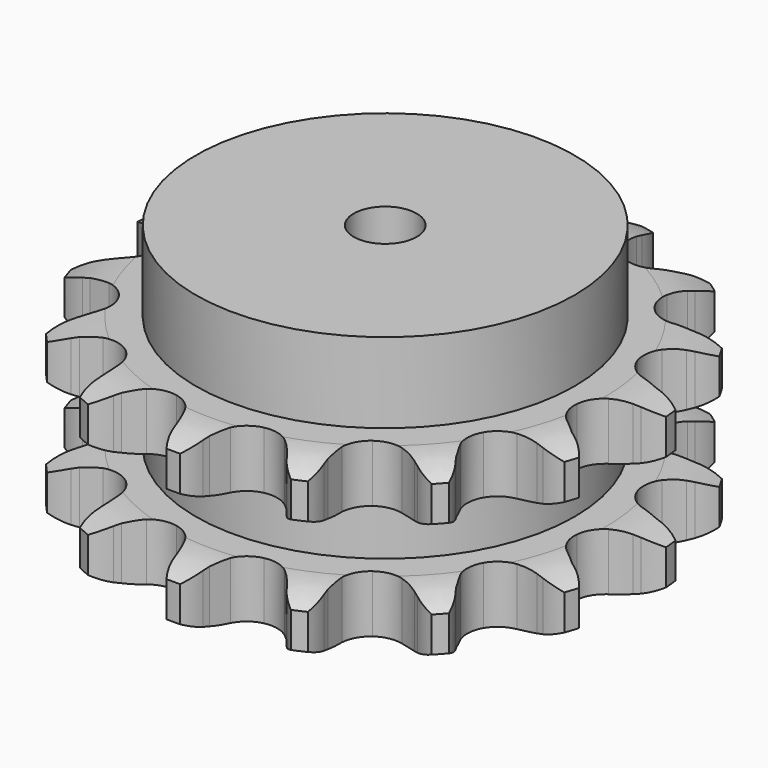
from build123d import *

# Parameters (mm, degrees)
PAD_DEPTH         = 54.6
SKETCH001_R       = 60
PAD001_DEPTH      = 80
SKETCH002_R       = 10
POCKET_DEPTH      = 0.001
POCKET_DEPTH_BACK = 80.001


with BuildPart() as part:
    # Sprocket → Pad (new body)
    with BuildSketch(Plane.XY):
        with BuildLine():
            ThreePointArc((-17.964652, 84.517045), (-14.254225, 81.479698), (-11.615491, 77.475972))
            Line((-11.615491, 77.475972), (-10.727337, 75.547943))
            ThreePointArc((-10.727337, 75.547943), (-9.261494, 72.825576), (-7.468936, 70.306308))
            ThreePointArc((-7.468936, 70.306308), (-4.137524, 67.680034), (0, 66.743808))
            ThreePointArc((0, 66.743808), (4.137524, 67.680034), (7.468936, 70.306308))
            ThreePointArc((7.468936, 70.306308), (9.261494, 72.825576), (10.727337, 75.547943))
            Line((10.727337, 75.547943), (11.615491, 77.475972))
            ThreePointArc((11.615491, 77.475972), (14.254225, 81.479698), (17.964652, 84.517045))
            ThreePointArc((17.964652, 84.517045), (20.118896, 80.233124), (20.901038, 75.502268))
            Line((20.901038, 75.502268), (20.928206, 73.379681))
            ThreePointArc((20.928206, 73.379681), (21.160035, 70.296463), (21.772939, 67.265898))
            ThreePointArc((21.772939, 67.265898), (23.748134, 63.51167), (27.147152, 60.973502))
            ThreePointArc((27.147152, 60.973502), (31.307766, 60.145905), (35.419364, 61.190118))
            Line((35.419364, 61.190118), (40.528027, 64.653279))
            ThreePointArc((40.528027, 64.653279), (41.310855, 65.370372), (42.123596, 66.053376))
            ThreePointArc((42.123596, 66.053376), (46.162662, 68.637692), (50.787706, 69.90328))
            ThreePointArc((50.787706, 69.90328), (51.013278, 65.113514), (49.803587, 60.473536))
            Line((49.803587, 60.473536), (48.965073, 58.523406))
            ThreePointArc((48.965073, 58.523406), (47.922801, 55.612453), (47.250075, 52.594603))
            ThreePointArc((47.250075, 52.594603), (47.527523, 48.361561), (49.600315, 44.660325))
            ThreePointArc((49.600315, 44.660325), (53.064611, 42.212003), (57.245462, 41.493601))
            Line((57.245462, 41.493601), (63.321052, 42.579476))
            ThreePointArc((63.321052, 42.579476), (64.32787, 42.916168), (65.348148, 43.209552))
            ThreePointArc((65.348148, 43.209552), (70.089155, 43.927606), (74.829103, 43.202603))
            ThreePointArc((74.829103, 43.202603), (73.087, 38.735185), (70.094644, 34.98838))
            Line((70.094644, 34.98838), (68.535434, 33.547902))
            ThreePointArc((68.535434, 33.547902), (66.39928, 31.312545), (64.557244, 28.829224))
            ThreePointArc((64.557244, 28.829224), (63.088972, 24.8493), (63.477133, 20.624971))
            ThreePointArc((63.477133, 20.624971), (65.646102, 16.979262), (69.1733, 14.622463))
            Line((69.1733, 14.622463), (75.165293, 13.143294))
            ThreePointArc((75.165293, 13.143294), (76.222011, 13.041369), (77.273412, 12.894404))
            ThreePointArc((77.273412, 12.894404), (81.896596, 11.622037), (85.931869, 9.031803))
            ThreePointArc((85.931869, 9.031803), (82.523316, 5.659192), (78.2657, 3.453416))
            Line((78.2657, 3.453416), (76.255395, 2.771661))
            ThreePointArc((76.255395, 2.771661), (73.39472, 1.598413), (70.701879, 0.07901))
            ThreePointArc((70.701879, 0.07901), (67.741764, -2.959632), (66.378178, -6.976628))
            ThreePointArc((66.378178, -6.976628), (66.876786, -11.189348), (69.140446, -14.777031))
            Line((69.140446, -14.777031), (74.012771, -18.565482))
            ThreePointArc((74.012771, -18.565482), (74.936675, -19.088402), (75.837401, -19.650304))
            ThreePointArc((75.837401, -19.650304), (79.543372, -22.693087), (82.176234, -26.700677))
            ThreePointArc((82.176234, -26.700677), (77.690601, -28.395328), (72.903905, -28.678676))
            Line((72.903905, -28.678676), (70.790106, -28.483825))
            ThreePointArc((70.790106, -28.483825), (67.699546, -28.392099), (64.621516, -28.684865))
            ThreePointArc((64.621516, -28.684865), (60.68139, -30.256816), (57.801833, -33.371904))
            ThreePointArc((57.801833, -33.371904), (56.543867, -37.423218), (57.15258, -41.621442))
            Line((57.15258, -41.621442), (60.062769, -47.064118))
            ThreePointArc((60.062769, -47.064118), (60.694106, -47.917614), (61.288414, -48.797296))
            ThreePointArc((61.288414, -48.797296), (63.436376, -53.08437), (64.211581, -57.816368))
            ThreePointArc((64.211581, -57.816368), (59.424475, -57.540037), (54.936363, -55.851964))
            Line((54.936363, -55.851964), (53.084565, -54.814199))
            ThreePointArc((53.084565, -54.814199), (50.298506, -53.473359), (47.367507, -52.488867))
            ThreePointArc((47.367507, -52.488867), (43.128653, -52.322322), (39.231026, -53.996875))
            ThreePointArc((39.231026, -53.996875), (36.433999, -57.186273), (35.282514, -61.269128))
            Line((35.282514, -61.269128), (35.727368, -67.42494))
            ThreePointArc((35.727368, -67.42494), (35.956976, -68.461436), (36.142104, -69.506792))
            ThreePointArc((36.142104, -69.506792), (36.360654, -74.296884), (35.144163, -78.935083))
            ThreePointArc((35.144163, -78.935083), (30.883318, -76.735551), (27.469825, -73.36794))
            Line((27.469825, -73.36794), (26.20022, -71.6667))
            ThreePointArc((26.20022, -71.6667), (24.200397, -69.30859), (21.923225, -67.217067))
            ThreePointArc((21.923225, -67.217067), (18.118579, -65.340823), (13.876818, -65.285295))
            ThreePointArc((13.876818, -65.285295), (10.024361, -67.061302), (7.311781, -70.322825))
            Line((7.311781, -70.322825), (5.214381, -76.127378))
            ThreePointArc((5.214381, -76.127378), (5.002557, -77.167653), (4.746496, -78.197932))
            ThreePointArc((4.746496, -78.197932), (2.997845, -82.662791), (0, -86.405206))
            ThreePointArc((0, -86.405206), (-2.997845, -82.662791), (-4.746496, -78.197932))
            Line((-4.746496, -78.197932), (-5.214381, -76.127378))
            ThreePointArc((-5.214381, -76.127378), (-6.082181, -73.159735), (-7.311781, -70.322825))
            ThreePointArc((-7.311781, -70.322825), (-10.024361, -67.061302), (-13.876818, -65.285295))
            ThreePointArc((-13.876818, -65.285295), (-18.118579, -65.340823), (-21.923225, -67.217067))
            Line((-21.923225, -67.217067), (-26.20022, -71.6667))
            ThreePointArc((-26.20022, -71.6667), (-26.816849, -72.530882), (-27.469825, -73.36794))
            ThreePointArc((-27.469825, -73.36794), (-30.883318, -76.735551), (-35.144163, -78.935083))
            ThreePointArc((-35.144163, -78.935083), (-36.360654, -74.296884), (-36.142104, -69.506792))
            Line((-36.142104, -69.506792), (-35.727368, -67.42494))
            ThreePointArc((-35.727368, -67.42494), (-35.313094, -64.360898), (-35.282514, -61.269128))
            ThreePointArc((-35.282514, -61.269128), (-36.433999, -57.186273), (-39.231026, -53.996875))
            ThreePointArc((-39.231026, -53.996875), (-43.128653, -52.322322), (-47.367507, -52.488867))
            Line((-47.367507, -52.488867), (-53.084565, -54.814199))
            ThreePointArc((-53.084565, -54.814199), (-53.999378, -55.352863), (-54.936363, -55.851964))
            ThreePointArc((-54.936363, -55.851964), (-59.424475, -57.540037), (-64.211581, -57.816368))
            ThreePointArc((-64.211581, -57.816368), (-63.436376, -53.08437), (-61.288414, -48.797296))
            Line((-61.288414, -48.797296), (-60.062769, -47.064118))
            ThreePointArc((-60.062769, -47.064118), (-58.438052, -44.433477), (-57.15258, -41.621442))
            ThreePointArc((-57.15258, -41.621442), (-56.543867, -37.423218), (-57.801833, -33.371904))
            ThreePointArc((-57.801833, -33.371904), (-60.68139, -30.256816), (-64.621516, -28.684865))
            Line((-64.621516, -28.684865), (-70.790106, -28.483825))
            ThreePointArc((-70.790106, -28.483825), (-71.844924, -28.603831), (-72.903905, -28.678676))
            ThreePointArc((-72.903905, -28.678676), (-77.690601, -28.395328), (-82.176234, -26.700677))
            ThreePointArc((-82.176234, -26.700677), (-79.543372, -22.693087), (-75.837401, -19.650304))
            Line((-75.837401, -19.650304), (-74.012771, -18.565482))
            ThreePointArc((-74.012771, -18.565482), (-71.45854, -16.823104), (-69.140446, -14.777031))
            ThreePointArc((-69.140446, -14.777031), (-66.876786, -11.189348), (-66.378178, -6.976628))
            ThreePointArc((-66.378178, -6.976628), (-67.741764, -2.959632), (-70.701879, 0.07901))
            Line((-70.701879, 0.07901), (-76.255395, 2.771661))
            ThreePointArc((-76.255395, 2.771661), (-77.26783, 3.091064), (-78.2657, 3.453416))
            ThreePointArc((-78.2657, 3.453416), (-82.523316, 5.659192), (-85.931869, 9.031803))
            ThreePointArc((-85.931869, 9.031803), (-81.896596, 11.622037), (-77.273412, 12.894404))
            Line((-77.273412, 12.894404), (-75.165293, 13.143294))
            ThreePointArc((-75.165293, 13.143294), (-72.123198, 13.696137), (-69.1733, 14.622463))
            ThreePointArc((-69.1733, 14.622463), (-65.646102, 16.979262), (-63.477133, 20.624971))
            ThreePointArc((-63.477133, 20.624971), (-63.088972, 24.8493), (-64.557244, 28.829224))
            Line((-64.557244, 28.829224), (-68.535434, 33.547902))
            ThreePointArc((-68.535434, 33.547902), (-69.330427, 34.251485), (-70.094644, 34.98838))
            ThreePointArc((-70.094644, 34.98838), (-73.087, 38.735185), (-74.829103, 43.202603))
            ThreePointArc((-74.829103, 43.202603), (-70.089155, 43.927606), (-65.348148, 43.209552))
            Line((-65.348148, 43.209552), (-63.321052, 42.579476))
            ThreePointArc((-63.321052, 42.579476), (-60.317099, 41.847191), (-57.245462, 41.493601))
            ThreePointArc((-57.245462, 41.493601), (-53.064611, 42.212003), (-49.600315, 44.660325))
            ThreePointArc((-49.600315, 44.660325), (-47.527523, 48.361561), (-47.250075, 52.594603))
            Line((-47.250075, 52.594603), (-48.965073, 58.523406))
            ThreePointArc((-48.965073, 58.523406), (-49.405162, 59.489514), (-49.803587, 60.473536))
            ThreePointArc((-49.803587, 60.473536), (-51.013278, 65.113514), (-50.787706, 69.90328))
            ThreePointArc((-50.787706, 69.90328), (-46.162662, 68.637692), (-42.123596, 66.053376))
            Line((-42.123596, 66.053376), (-40.528027, 64.653279))
            ThreePointArc((-40.528027, 64.653279), (-38.081626, 62.762485), (-35.419364, 61.190118))
            ThreePointArc((-35.419364, 61.190118), (-31.307766, 60.145905), (-27.147152, 60.973502))
            ThreePointArc((-27.147152, 60.973502), (-23.748134, 63.51167), (-21.772939, 67.265898))
            Line((-21.772939, 67.265898), (-20.928206, 73.379681))
            ThreePointArc((-20.928206, 73.379681), (-20.937296, 74.441265), (-20.901038, 75.502268))
            ThreePointArc((-20.901038, 75.502268), (-20.118896, 80.233124), (-17.964652, 84.517045))
        make_face()
    extrude(amount=PAD_DEPTH)

    # Sketch → Groove (revolve, cut)
    with BuildSketch(Plane.XZ):
        with BuildLine():
            ThreePointArc((69.398368, 0), (76.881683, 0.887302), (83.95, 3.5))
            Line((83.95, 3.5), (83.95, 14.7))
            ThreePointArc((83.95, 14.7), (76.881683, 17.312698), (69.398368, 18.2))
            Line((60, 18.2), (69.398368, 18.2))
            Line((60, 36.4), (60, 18.2))
            Line((69.398368, 36.4), (60, 36.4))
            ThreePointArc((69.398368, 36.4), (76.881683, 37.287302), (83.95, 39.9))
            Line((83.95, 39.9), (83.95, 51.1))
            ThreePointArc((83.95, 51.1), (76.881683, 53.712698), (69.398368, 54.6))
            Line((69.398368, 54.6), (93.95, 54.6))
            Line((93.95, 54.6), (93.95, 0))
            Line((69.398368, 0), (93.95, 0))
        make_face()
    revolve(axis=Axis((0, 0, 0), (0, 0, 1)), mode=Mode.SUBTRACT)

    # Sketch001 → Pad001 (join)
    with BuildSketch(Plane.XY):
        Circle(SKETCH001_R)
    extrude(amount=PAD001_DEPTH)

    # Sketch002 → Pocket (cut, two sides)
    with BuildSketch(Plane.XY) as pocket_sk:
        Circle(SKETCH002_R)
    extrude(amount=-POCKET_DEPTH, mode=Mode.SUBTRACT)
    extrude(pocket_sk.sketch, amount=POCKET_DEPTH_BACK, mode=Mode.SUBTRACT)


solid = part.part
